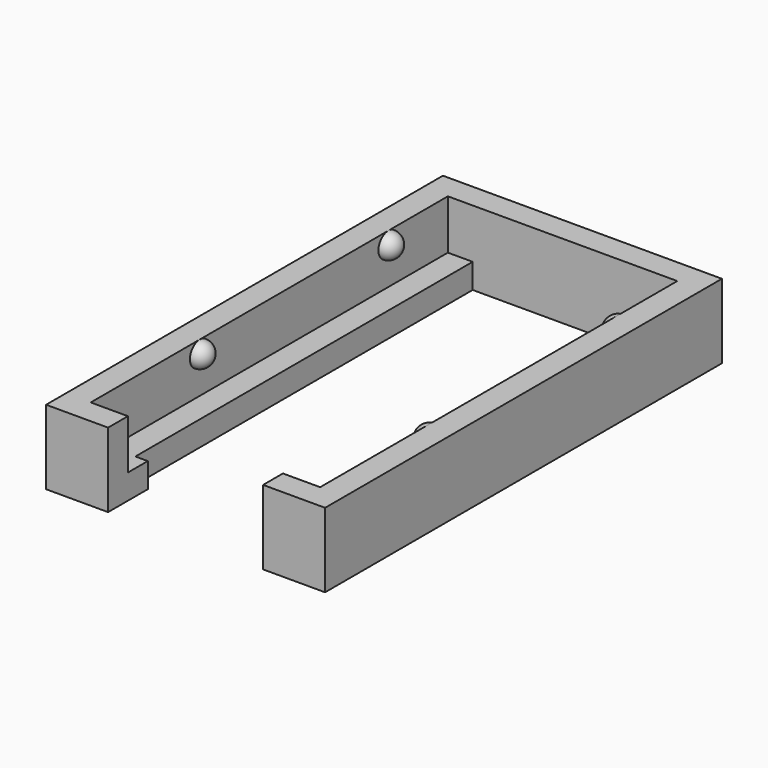
from build123d import *

# Parameters (mm, degrees)
SKETCH064_W         = 22.5
SKETCH064_H         = 40
PAD034_DEPTH        = 6
SKETCH065_W         = 18.5
SKETCH065_H         = 36
POCKET020_DEPTH     = 4
SKETCH062_W         = 14.5
SKETCH062_H         = 32
POCKET021_DEPTH     = 2.001
SKETCH063_W         = 12.5
SKETCH063_H         = 4
POCKET022_DEPTH     = 6.001
REVOLUTION005_ANGLE = -180
REVOLUTION006_ANGLE = 180
SKETCH084_W         = 14.5
SKETCH084_H         = 2
POCKET029_DEPTH     = 2.001


with BuildPart() as part:
    # Sketch064 → Pad034 (new body)
    with BuildSketch(Plane.XY):
        with Locations((11.25, 20)):
            Rectangle(SKETCH064_W, SKETCH064_H)
    extrude(amount=PAD034_DEPTH)

    # Sketch065 (on Face6 of Pad034) → Pocket020 (cut)
    with BuildSketch(Plane.XY.offset(6)):
        with Locations((11.25, 20)):
            Rectangle(SKETCH065_W, SKETCH065_H)
    extrude(amount=-POCKET020_DEPTH, mode=Mode.SUBTRACT)

    # Sketch062 (on Face11 of Pocket020) → Pocket021 (cut, through all)
    with BuildSketch(Plane.XY.offset(2)):
        with Locations((11.25, 20)):
            Rectangle(SKETCH062_W, SKETCH062_H)
    extrude(amount=-POCKET021_DEPTH, mode=Mode.SUBTRACT)

    # Sketch063 (on Face5 of Pocket021) → Pocket022 (cut, through all)
    with BuildSketch(Plane.XY.offset(6)):
        with Locations((11.25, 2)):
            Rectangle(SKETCH063_W, SKETCH063_H)
    extrude(amount=-POCKET022_DEPTH, mode=Mode.SUBTRACT)

    # Sketch067 (on Face20 of Pocket022) → Revolution005 (revolve)
    with BuildSketch(Plane.YZ.offset(2)):
        with BuildLine():
            ThreePointArc((14, 5), (13, 6), (12, 5))
            Line((12, 5), (14, 5))
        make_face()
        with BuildLine():
            ThreePointArc((33, 5), (32, 6), (31, 5))
            Line((31, 5), (33, 5))
        make_face()
    revolve(axis=Axis((2, 14, 5), (0, -1, 0)), revolution_arc=REVOLUTION005_ANGLE)

    # Sketch068 (on Face19 of Revolution005) → Revolution006 (revolve)
    with BuildSketch(Plane(origin=(20.5, 0, 0), x_dir=(0, -1, 0), z_dir=(-1, 0, 0))):
        with BuildLine():
            ThreePointArc((-31, 5), (-32, 6), (-33, 5))
            Line((-33, 5), (-31, 5))
        make_face()
        with BuildLine():
            ThreePointArc((-12, 5), (-13, 6), (-14, 5))
            Line((-14, 5), (-12, 5))
        make_face()
    revolve(axis=Axis((20.5, 31, 5), (0, -1, 0)), revolution_arc=REVOLUTION006_ANGLE)

    # Sketch084 (on Face15 of Revolution006) → Pocket029 (cut, through all)
    with BuildSketch(Plane.XY.offset(2)):
        with Locations((11.25, 37)):
            Rectangle(SKETCH084_W, SKETCH084_H)
    extrude(amount=-POCKET029_DEPTH, mode=Mode.SUBTRACT)


solid = part.part
